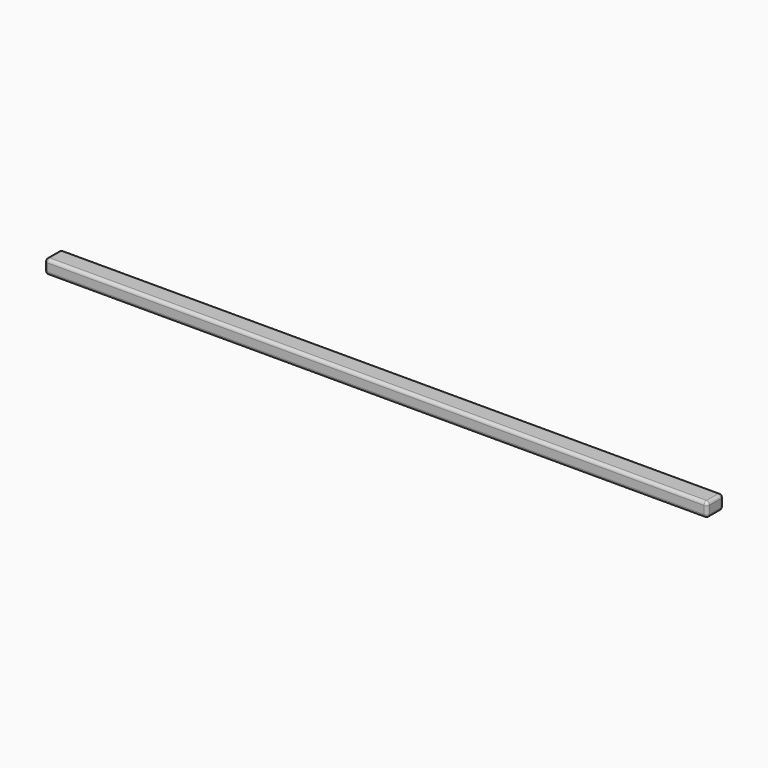
from build123d import *

# Parameters (mm, degrees)
F1_DEPTH = 4.5
F2_R     = 1


with BuildPart() as f1:
    # F0 (on Top) → F1 (new body)
    with BuildSketch(Plane.XY):
        with BuildLine():
            ThreePointArc((0, 1), (0.2928932188, 0.2928932188), (1, 0))
            Line((1, 0), (209, 0))
            ThreePointArc((209, 0), (209.7071067812, 0.2928932188), (210, 1))
            Line((210, 1), (210, 5.5))
            ThreePointArc((210, 5.5), (209.7071067812, 6.2071067812), (209, 6.5))
            Line((209, 6.5), (1, 6.5))
            ThreePointArc((1, 6.5), (0.2928932188, 6.2071067812), (0, 5.5))
            Line((0, 5.5), (0, 1))
        make_face()
    extrude(amount=F1_DEPTH)

    # F2
    f2_edges = [f1.edges().sort_by_distance(p)[0] for p in [
        (0, 3.25, 4.5),
        (0, 3.25, 0),
    ]]
    fillet(f2_edges, radius=F2_R)


solid = f1.part
